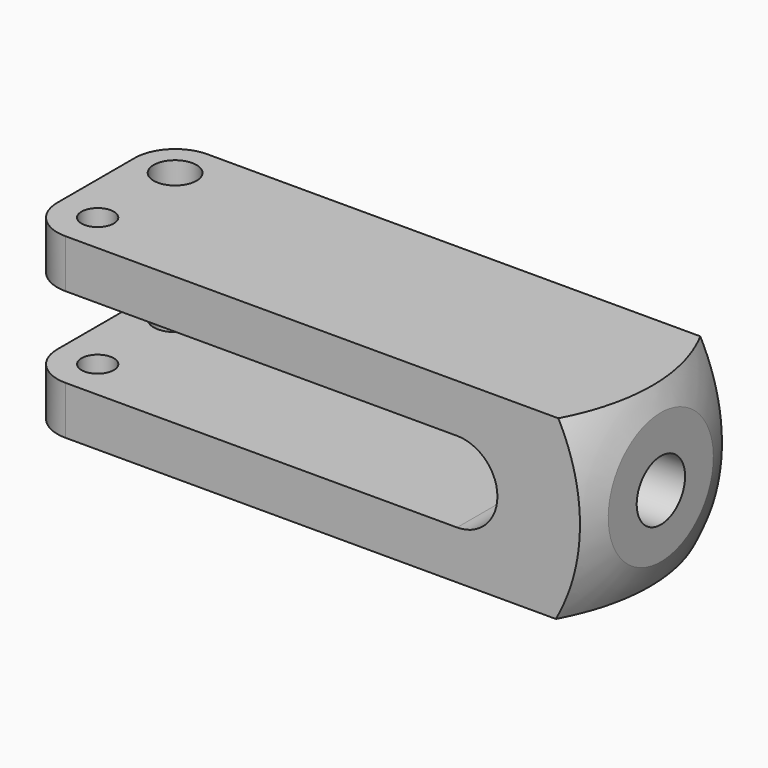
from build123d import *

# Parameters (mm, degrees)
F0_W     = 111.125
F0_H     = 34.925
F1_DEPTH = 34.925
F3_DEPTH = 34.925
F8_D     = 8.4328
F9_D     = 6.35
F10_R    = 7.9375
F12_D    = 11.90498


with BuildPart() as f1:
    # F0 (on Front) → F1 (new body)
    with BuildSketch(Plane.XZ):
        with Locations((-1.9895918667, -10.3187973859)):
            Rectangle(F0_W, F0_H)
    extrude(amount=F1_DEPTH)

    # F2 (on face) → F3 (cut)
    with BuildSketch(Plane.XZ.offset(34.925)):
        with BuildLine():
            Line((27.4617081333, -2.3812973859), (-57.5520918667, -2.3812973859))
            Line((-57.5520918667, -2.3812973859), (-57.5520918667, -18.2562973859))
            Line((-57.5520918667, -18.2562973859), (27.4617081333, -18.2562973859))
            ThreePointArc((27.4617081333, -18.2562973859), (35.3992081333, -10.3187973859), (27.4617081333, -2.3812973859))
        make_face()
    extrude(amount=-F3_DEPTH, mode=Mode.SUBTRACT)

    # F5 (on mid) → F6 (revolve, intersect)
    with BuildSketch(Plane.XZ.offset(17.4625)):
        with BuildLine():
            Line((-68.8055506017, -9.8742973859), (56.133069098, -9.8742973859))
            ThreePointArc((56.133069098, -9.8742973859), (52.8530157752, 4.9131087603), (44.7397269309, 17.70375669))
            Line((44.7397269309, 17.70375669), (-68.8055506017, 17.70375669))
            Line((-68.8055506017, 17.70375669), (-68.8055506017, -9.8742973859))
        make_face()
    revolve(axis=Axis((-6.3362407519, -17.4625, -9.8742973859), (-1, 0, 0)), mode=Mode.INTERSECT)

    # F8 (through all)
    with Locations(Plane.XY.offset(7.1437026141)):
        with Locations((-49.6145918667, -7.9375)):
            Hole(F8_D / 2)

    # F9 (through all)
    with Locations(Plane.XY.offset(7.1437026141)):
        with Locations((-49.6145918667, -26.9875)):
            Hole(F9_D / 2)

    # F10
    f10_edges = [f1.edges().sort_by_distance(p)[0] for p in [
        (-57.552092, 0, 2.381203),
        (-57.552092, -34.925, 2.381203),
        (-57.552092, 0, -23.018797),
        (-57.552092, -34.925, -23.018797),
    ]]
    fillet(f10_edges, radius=F10_R)

    # F12 (through all)
    with Locations(Plane.YZ.offset(53.5729081333)):
        with Locations((-17.4315758049, -10.4321427643)):
            Hole(F12_D / 2)


solid = f1.part
